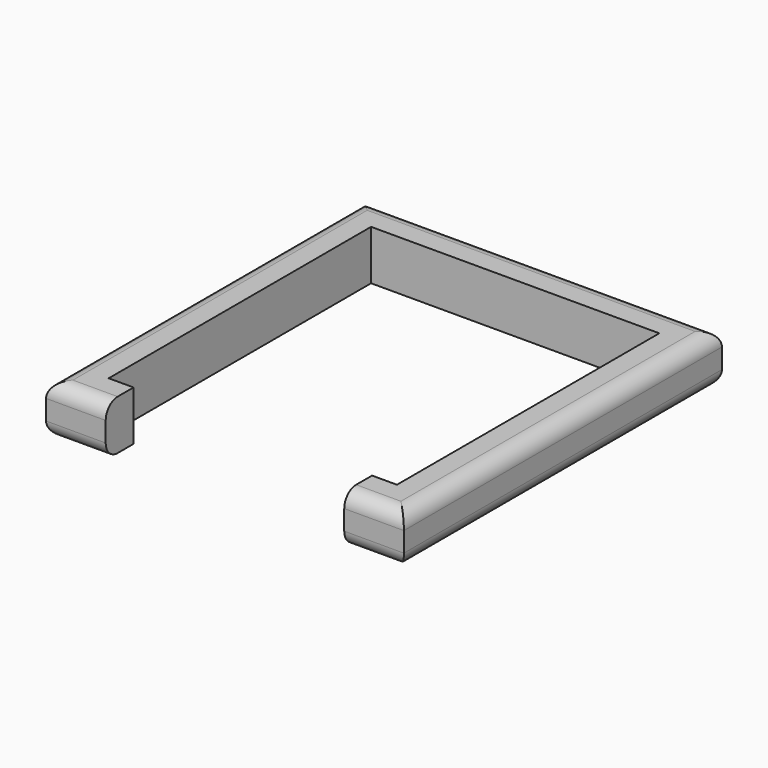
from build123d import *

# Parameters (mm, degrees)
F1_DEPTH = 127
F2_R     = 38.1


with BuildPart() as f1:
    # F0 (on Top) → F1 (new body)
    with BuildSketch(Plane.XY):
        Polygon((470.323251, 669.416738), (-444.076749, 669.416738), (-444.076749, -346.583262), (-291.676749, -346.583262), (-291.676749, -257.683262), (-355.176749, -257.683262), (-355.176749, 580.516738), (381.423251, 580.516738), (381.423251, -257.683262), (317.923251, -257.683262), (317.923251, -346.583262), (470.323251, -346.583262), align=None)
    extrude(amount=F1_DEPTH)

    # F2
    f2_edges = [f1.edges().sort_by_distance(p)[0] for p in [
        (13.123251, 669.416738, 0),
        (13.123251, 669.416738, 127),
        (470.323251, 161.416738, 127),
        (470.323251, 161.416738, 0),
        (-444.076749, 161.416738, 0),
        (-444.076749, 161.416738, 127),
        (-367.876749, -346.583262, 0),
        (-367.876749, -346.583262, 127),
        (394.123251, -346.583262, 127),
        (394.123251, -346.583262, 0),
    ]]
    fillet(f2_edges, radius=F2_R)


solid = f1.part
